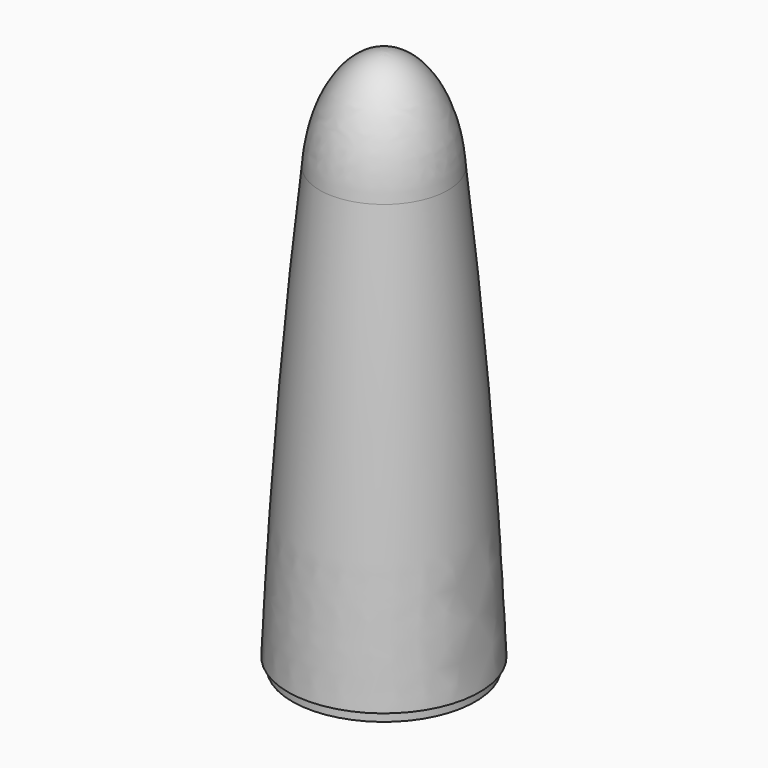
from build123d import *


with BuildPart() as f1:
    # F0 (on Front) → F1 (revolve)
    with BuildSketch(Plane.XZ):
        with BuildLine():
            Line((-29.6536915112, 88.7057785988), (-28.35564, 88.7057785988))
            Line((-28.35564, 88.7057785988), (-28.35564, 85.7057785988))
            Line((-28.35564, 85.7057785988), (0, 85.7057785988))
            Line((0, 85.7057785988), (0, 88.7057785988))
            Line((0, 88.7057785988), (0, 253.7057785988))
            add(Edge.make_bspline(
                [(0, 253.7057785988), (-17.8076588784, 253.7057785988), (-19.8582683967, 222.3389712359)],
                knots=[0, 0, 0, 1.4553870678, 1.4553870678, 1.4553870678], degree=2, weights=[1, 0.7467105311, 1]))
            add(Edge.make_bspline(
                [(-19.8582683967, 222.3389712359), (-26.5845892025, 160.7555403311), (-29.6536915112, 88.7057785988)],
                knots=[1.025764625, 1.025764625, 1.025764625, 1.5093101156, 1.5093101156, 1.5093101156], degree=2, weights=[1, 0.9709150626, 1]))
        make_face()
    revolve(axis=Axis((0, 0, 273.8528892994), (0, 0, -1)))


with BuildPart() as f1_1:
    # F2: moved
    add(f1.part.moved(Location((0, 0, -220))))


solid = f1_1.part
